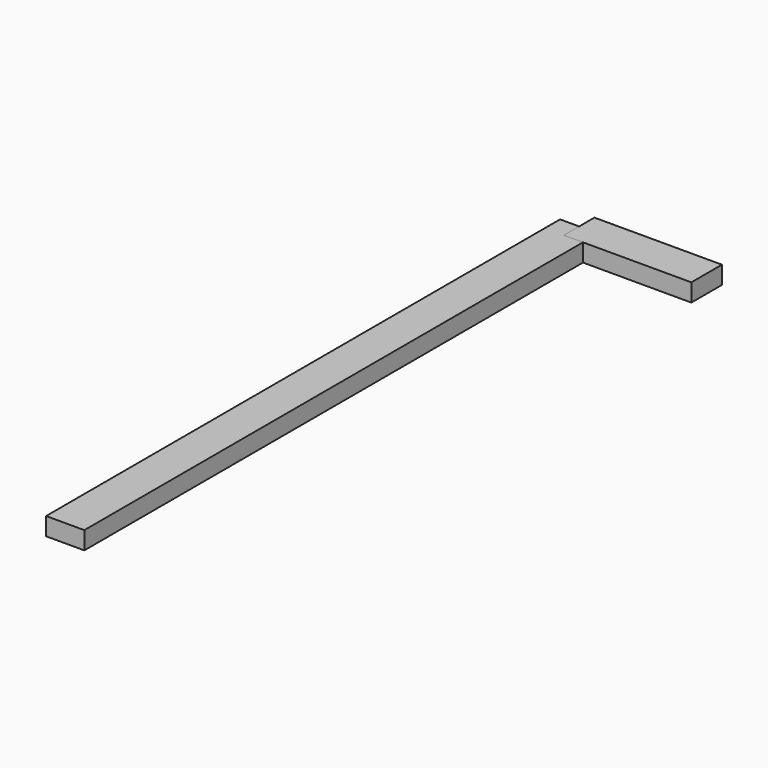
from build123d import *

# Parameters (mm, degrees)
F0_W     = 95.25
F0_H     = 44.45
F1_DEPTH = 1600.2
F2_W     = 95.25
F2_H     = 44.45
F3_DEPTH = 317.5


with BuildPart() as f1:
    # F0 (on Front) → F1 (new body)
    with BuildSketch(Plane.XZ):
        Rectangle(F0_W, F0_H)
    extrude(amount=F1_DEPTH)


with BuildPart() as f3:
    # F2 (on Right) → F3 (new body)
    with BuildSketch(Plane.YZ):
        Rectangle(F2_W, F2_H)
    extrude(amount=F3_DEPTH)


solid = Compound([f1.part, f3.part])
